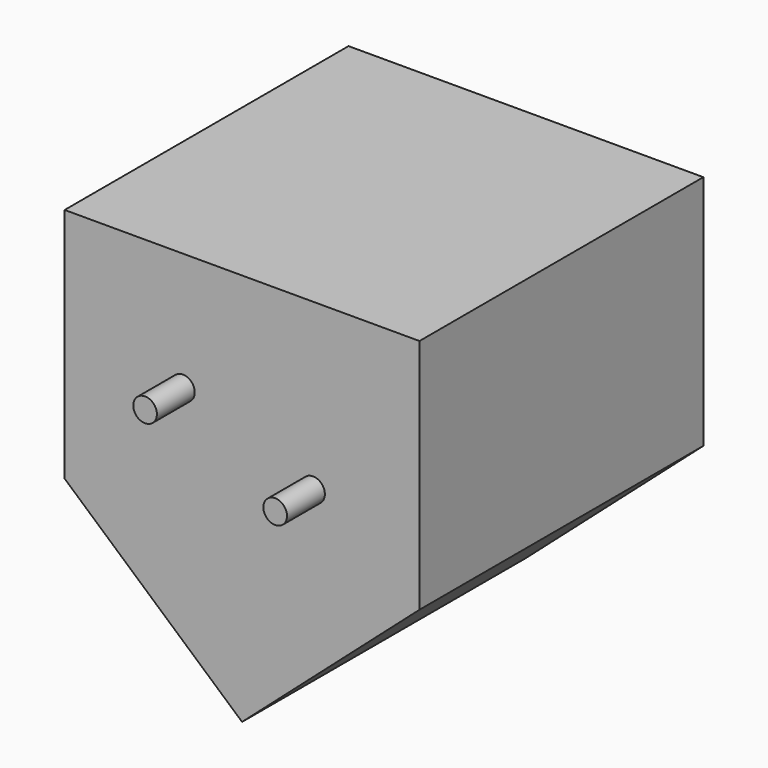
from build123d import *

# Parameters (mm, degrees)
F1_DEPTH      = 10
F1_DEPTH_BACK = 20
F2_R          = 1
F3_DEPTH      = 4


with BuildPart() as f1:
    # F0 (on Front) → F1 (new body, two sides)
    with BuildSketch(Plane.XZ) as f1_sk:
        Polygon((0, -13.228757), (15, 0), (15, 20), (0, 20), (-15, 20), (-15, 0), align=None)
    extrude(amount=F1_DEPTH)
    extrude(f1_sk.sketch, amount=-F1_DEPTH_BACK)

    # F2 (on face) → F3 (join)
    with BuildSketch(Plane.XZ.offset(10)):
        with Locations((-5, 10)):
            Circle(F2_R)
        with Locations((6, 6)):
            Circle(F2_R)
    extrude(amount=F3_DEPTH)


solid = f1.part
